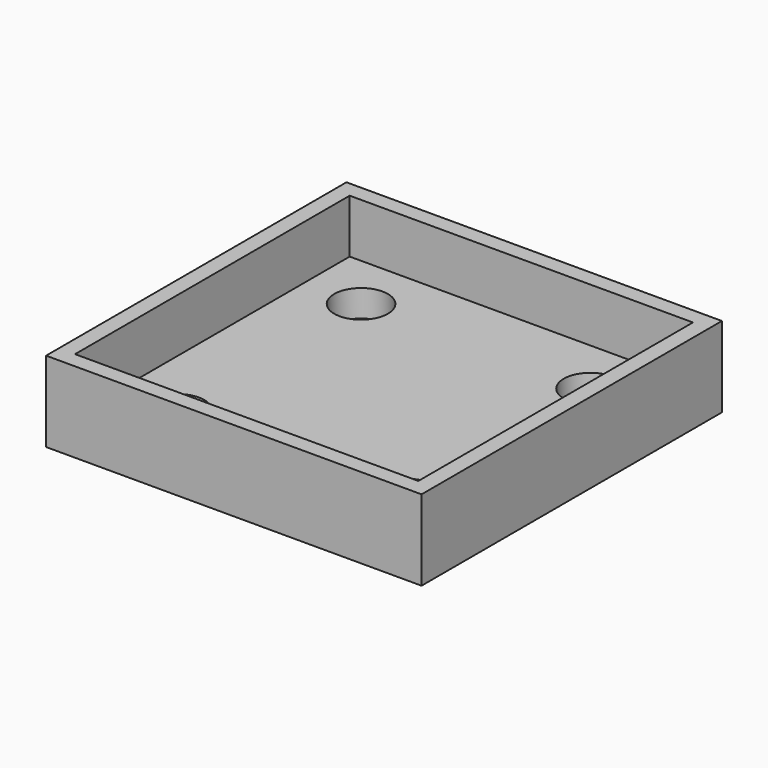
from build123d import *

# Parameters (mm, degrees)
F0_W     = 88.9
F0_H     = 88.9
F1_DEPTH = 6.35
F2_W     = 88.9
F2_H     = 88.9
F2_W_2   = 81.28
F2_H_2   = 81.28
F3_DEPTH = 12.7
F4_R     = 6.35
F5_DEPTH = 6.351


with BuildPart() as f1:
    # F0 (on Top) → F1 (new body)
    with BuildSketch(Plane.XY):
        with Locations((44.45, 44.45)):
            Rectangle(F0_W, F0_H)
    extrude(amount=F1_DEPTH)

    # F2 (on face) → F3 (join)
    with BuildSketch(Plane.XY.offset(6.35)):
        with Locations((44.45, 44.45)):
            Rectangle(F2_W, F2_H)
        with Locations((44.45, 44.45)):
            Rectangle(F2_W_2, F2_H_2, mode=Mode.SUBTRACT)
    extrude(amount=F3_DEPTH)

    # F4 (on face) → F5 (cut, through all)
    with BuildSketch(Plane.XY.offset(6.35)):
        with Locations((17.280384, 71.619616)):
            Circle(F4_R)
        with Locations((17.280384, 17.280384)):
            Circle(F4_R)
        with Locations((71.619616, 17.280384)):
            Circle(F4_R)
        with Locations((71.619616, 71.619616)):
            Circle(F4_R)
    extrude(amount=-F5_DEPTH, mode=Mode.SUBTRACT)


solid = f1.part
